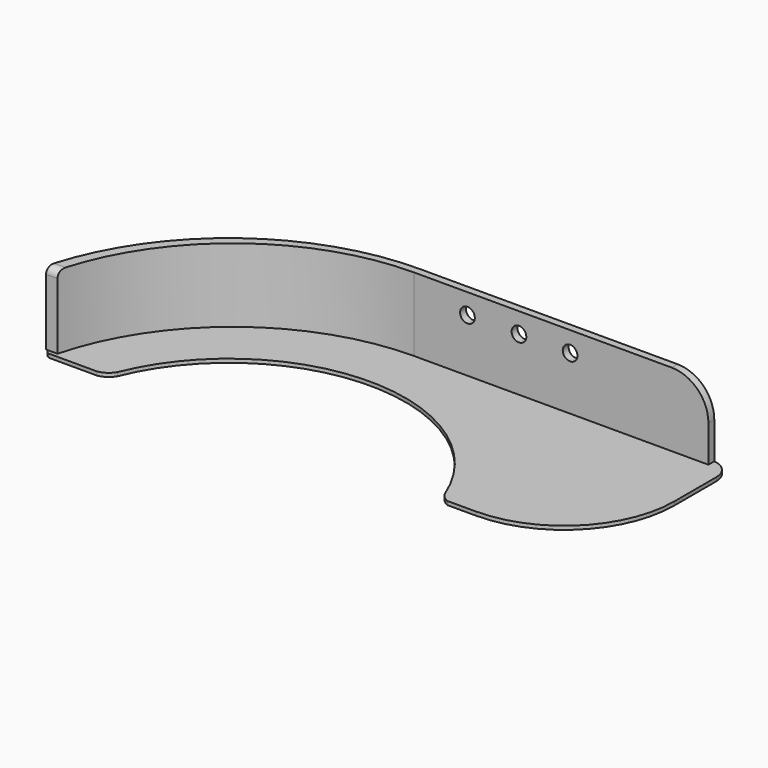
from build123d import *

# Parameters (mm, degrees)
PAD_DEPTH    = 1
PAD004_DEPTH = 20
FILLET_R     = 10
FILLET001_R  = 2
SKETCH003_R  = 2
POCKET_DEPTH = 49.6274


with BuildPart() as part:
    # Sketch → Pad (new body)
    with BuildSketch(Plane.XY):
        with BuildLine():
            ThreePointArc((0, 65), (-39.250322, 51.811314), (-62.572638, 17.5973))
            ThreePointArc((-62.572638, 17.5973), (-62.281657, 16.256919), (-61.1956, 15.4192))
            Line((-61.1956, 15.4192), (-48.0942, 15.4192))
            ThreePointArc((-48.0942, 15.4192), (-46.017568, 16.268418), (-44.521334, 17.9402))
            ThreePointArc((44.629065, 17.6705), (0.14521, 47.99978), (-44.521334, 17.9402))
            ThreePointArc((44.629065, 17.6705), (45.695788, 16.297968), (47.167959, 15.3736))
            Line((47.167959, 15.3736), (54.923211, 15.384158))
            ThreePointArc((54.923211, 15.384158), (76.110008, 24.185371), (84.88237, 45.38413))
            Line((84.88237, 59.61183), (84.88237, 45.38413))
            ThreePointArc((84.88237, 59.61183), (83.304212, 63.421842), (79.4942, 65))
            Line((0, 65), (79.4942, 65))
        make_face()
    extrude(amount=PAD_DEPTH)

    # Sketch001 → Pad004 (new body)
    with BuildSketch(Plane.XY.offset(1)):
        with BuildLine():
            ThreePointArc((6e-05, 65), (-39.693641, 51.472467), (-62.865542, 16.5204))
            Line((-62.865542, 16.5204), (-59.765542, 16.5204))
            ThreePointArc((6e-05, 63), (-37.80132, 49.942273), (-59.765542, 16.5204))
            Line((80.00006, 63), (6e-05, 63))
            Line((80.00006, 65), (80.00006, 63))
            Line((6e-05, 65), (80.00006, 65))
        make_face()
    extrude(amount=PAD004_DEPTH)

    # Fillet
    fillet_edges = [part.edges().sort_by_distance(p)[0] for p in [
        (80.00006, 64, 21),
    ]]
    fillet(fillet_edges, radius=FILLET_R)

    # Fillet001
    fillet001_edges = [part.edges().sort_by_distance(p)[0] for p in [
        (-61.315542, 16.5204, 21),
    ]]
    fillet(fillet001_edges, radius=FILLET001_R)

    # Sketch003 → Pocket (cut, through all)
    with BuildSketch(Plane(origin=(0, 65, 0), x_dir=(-1, 0, 0), z_dir=(0, 1, 0))):
        with Locations((-42.40006, 15.5)):
            Circle(SKETCH003_R)
        with Locations((-28.50006, 15.5)):
            Circle(SKETCH003_R)
        with Locations((-14.50006, 15.5)):
            Circle(SKETCH003_R)
    extrude(amount=-POCKET_DEPTH, mode=Mode.SUBTRACT)


solid = part.part
